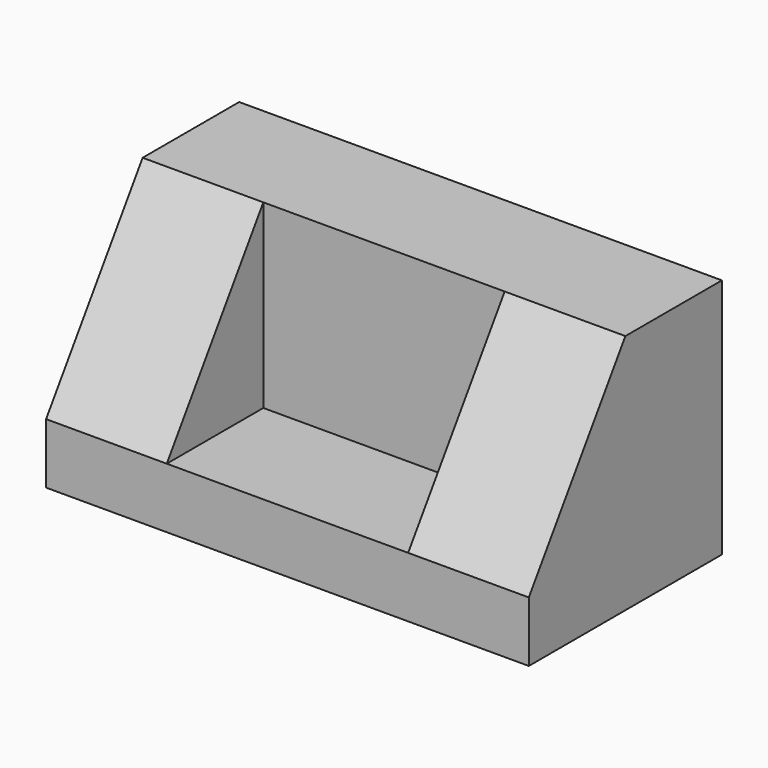
from build123d import *

# Parameters (mm, degrees)
F1_DEPTH = 203.2
F2_W     = 101.6
F2_H     = 50.8
F3_DEPTH = 101.6
F4_W     = 101.6
F4_H     = 25.4
F5_DEPTH = 50.8
F6_DEPTH = 50.8


with BuildPart() as f1:
    # F0 (on Right) → F1 (new body)
    with BuildSketch(Plane.YZ):
        Polygon((-58.176275, -16.988439), (43.423725, -16.988439), (43.423725, 84.611561), (-7.376275, 84.611561), (-58.176275, 8.411561), align=None)
    extrude(amount=F1_DEPTH)

    # F2 (on face) → F3 (cut)
    with BuildSketch(Plane(origin=(0, 0, -16.988439), x_dir=(1, 0, 0), z_dir=(0, 0, -1))):
        with Locations((101.6, 32.776275)):
            Rectangle(F2_W, F2_H)
    extrude(amount=-F3_DEPTH, mode=Mode.SUBTRACT)

    # F4 (on face) → F5 (join)
    with BuildSketch(Plane.XZ.offset(7.376275)):
        with Locations((101.6, -4.288439)):
            Rectangle(F4_W, F4_H)
    extrude(amount=F5_DEPTH)

    # F4 (on face) → F6 (join)
    with BuildSketch(Plane.XZ.offset(7.376275)):
        with Locations((101.6, -4.288439)):
            Rectangle(F4_W, F4_H)
    extrude(amount=F6_DEPTH)


solid = f1.part
